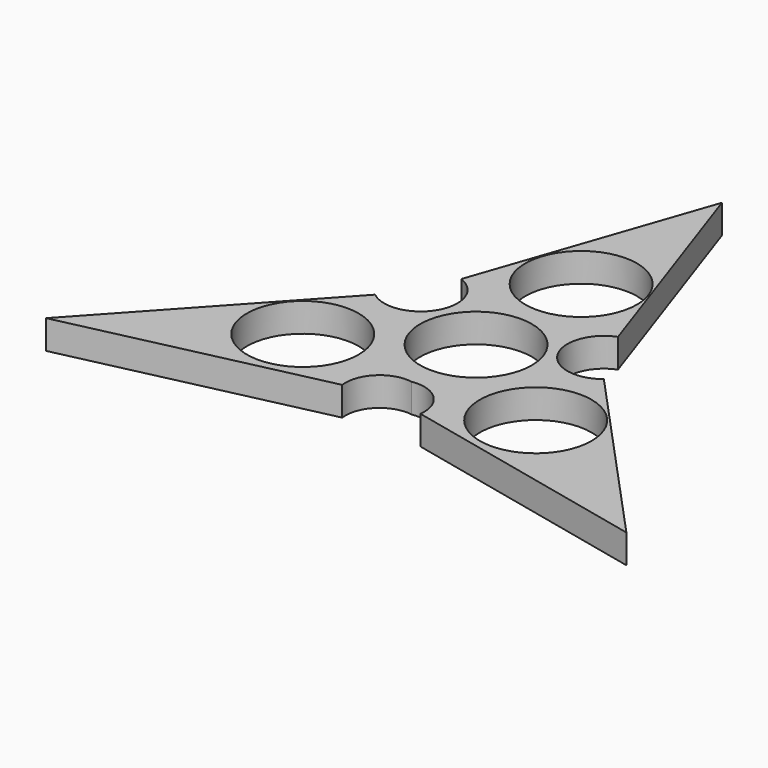
from build123d import *

# Parameters (mm, degrees)
F0_R     = 13.55
F1_DEPTH = 7


with BuildPart() as f1:
    # F0 (on Top) → F1 (new body)
    with BuildSketch(Plane.XY):
        with BuildLine():
            ThreePointArc((-19.002935, 19.291424), (-14.526693, 6.593441), (-27.753296, 4.076997))
            Line((-27.753296, 4.076997), (-70.395388, -42.391945))
            Line((-70.395388, -42.391945), (-9.481418, -28.723067))
            ThreePointArc((-9.481418, -28.723067), (-7.062366, -21.723421), (0, -19.494107))
            ThreePointArc((0, -19.494107), (7.062366, -21.723421), (9.481418, -28.723067))
            Line((9.481418, -28.723067), (70.395388, -42.391945))
            Line((70.395388, -42.391945), (27.753296, 4.076997))
            ThreePointArc((27.753296, 4.076997), (14.526693, 6.593441), (19.002935, 19.291424))
            Line((19.002935, 19.291424), (0, 74.57269))
            Line((0, 74.57269), (-19.002935, 19.291424))
        make_face()
        with Locations((-28.363841, -17.090467)):
            Circle(F0_R, mode=Mode.SUBTRACT)
        with Locations((28.22023, -17.173382)):
            Circle(F0_R, mode=Mode.SUBTRACT)
        Circle(F0_R, mode=Mode.SUBTRACT)
        with Locations((0, 31.871319)):
            Circle(F0_R, mode=Mode.SUBTRACT)
    extrude(amount=F1_DEPTH)


solid = f1.part
